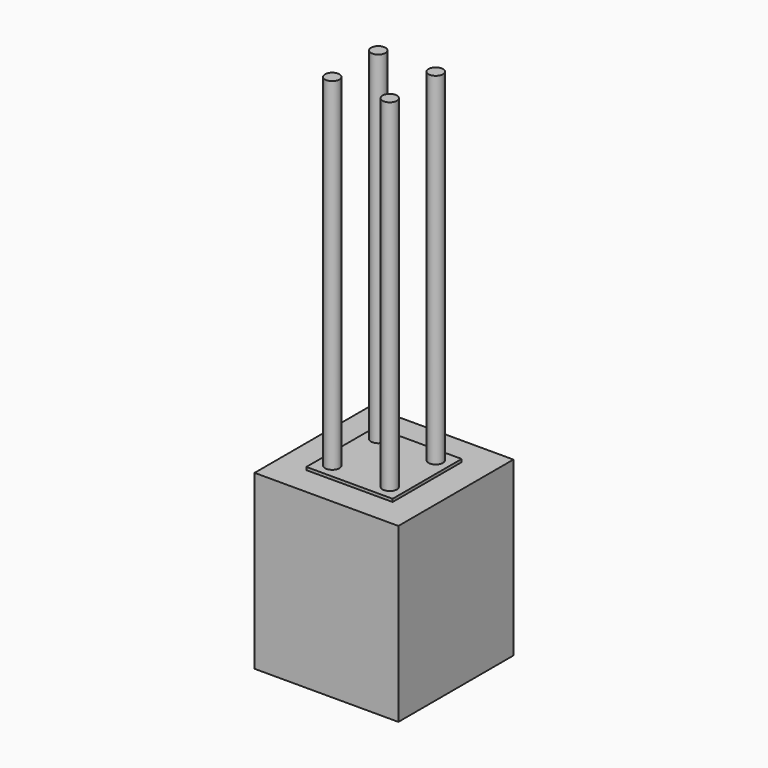
from build123d import *

# Parameters (mm, degrees)
F0_W     = 25
F0_H     = 25
F1_DEPTH = 30
F2_R     = 1.25
F3_DEPTH = 60
F2_W     = 15
F2_H     = 15
F4_DEPTH = 0.5


with BuildPart() as f1:
    # F0 (on Top) → F1 (new body)
    with BuildSketch(Plane.XY):
        Rectangle(F0_W, F0_H)
    extrude(amount=F1_DEPTH)

    # F2 (on face) → F3 (join)
    with BuildSketch(Plane.XY.offset(30)):
        with Locations((-5, 5)):
            Circle(F2_R)
        with Locations((5, 5)):
            Circle(F2_R)
        with Locations((-5, -5)):
            Circle(F2_R)
        with Locations((5, -5)):
            Circle(F2_R)
    extrude(amount=F3_DEPTH)

    # F2 (on face) → F4 (join)
    with BuildSketch(Plane.XY.offset(30)):
        Rectangle(F2_W, F2_H)
        with Locations((-5, -5)):
            Circle(F2_R, mode=Mode.SUBTRACT)
        with Locations((5, -5)):
            Circle(F2_R, mode=Mode.SUBTRACT)
        with Locations((-5, 5)):
            Circle(F2_R, mode=Mode.SUBTRACT)
        with Locations((5, 5)):
            Circle(F2_R, mode=Mode.SUBTRACT)
    extrude(amount=F4_DEPTH)


solid = f1.part
